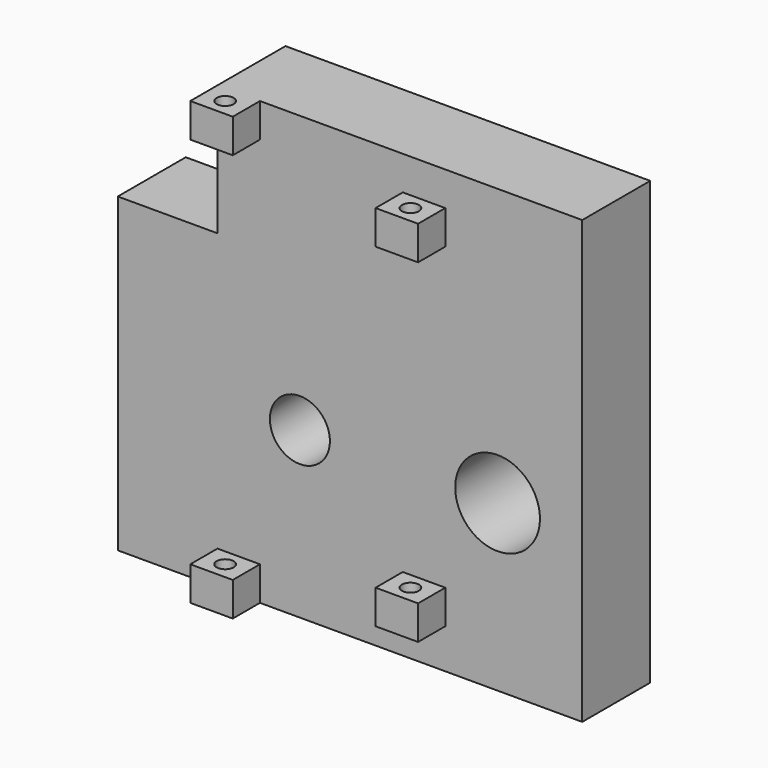
from build123d import *

# Parameters (mm, degrees)
SKETCH011_W     = 82
SKETCH011_H     = 78
SKETCH011_R     = 7.485
SKETCH011_R_2   = 5.3
PAD011_DEPTH    = 15
SKETCH012_W     = 7.5
SKETCH012_H     = 6
PAD012_DEPTH    = 6
SKETCH013_R     = 1.5
POCKET003_DEPTH = 3
SKETCH014_R     = 1.5
POCKET004_DEPTH = 3
SKETCH015_R     = 1.5
POCKET005_DEPTH = 6
SKETCH016_R     = 1.5
POCKET006_DEPTH = 6
SKETCH023_W     = 17.6
SKETCH023_H     = 23
POCKET012_DEPTH = 15.001


with BuildPart() as part:
    # Sketch011 → Pad011 (new body)
    with BuildSketch(Plane.XZ):
        with Locations((0, 39)):
            Rectangle(SKETCH011_W, SKETCH011_H)
        with Locations((26.05, 29.15)):
            Circle(SKETCH011_R, mode=Mode.SUBTRACT)
        with Locations((-8.85, 29.15)):
            Circle(SKETCH011_R_2, mode=Mode.SUBTRACT)
    extrude(amount=PAD011_DEPTH)

    # Sketch012 (on Face8 of Pad011) → Pad012 (join)
    with BuildSketch(Plane.XZ.offset(15)):
        with Locations((-19.65, 3)):
            Rectangle(SKETCH012_W, SKETCH012_H)
        with Locations((-19.65, 75)):
            Rectangle(SKETCH012_W, SKETCH012_H)
        with Locations((13.065, 10)):
            Rectangle(SKETCH012_W, SKETCH012_H)
        with Locations((13.065, 69)):
            Rectangle(SKETCH012_W, SKETCH012_H)
    extrude(amount=PAD012_DEPTH)

    # Sketch013 (on Face11 of Pad012) → Pocket003 (cut)
    with BuildSketch(Plane(origin=(0, 0, 6), x_dir=(-1, 0, 0), z_dir=(0, 0, 1))):
        with Locations((19.65, 18)):
            Circle(SKETCH013_R)
    extrude(amount=-POCKET003_DEPTH, mode=Mode.SUBTRACT)

    # Sketch014 (on Face16 of Pocket003) → Pocket004 (cut)
    with BuildSketch(Plane(origin=(0, 0, 13), x_dir=(-1, 0, 0), z_dir=(0, 0, 1))):
        with Locations((-13.065, 18)):
            Circle(SKETCH014_R)
    extrude(amount=-POCKET004_DEPTH, mode=Mode.SUBTRACT)

    # Sketch015 (on Face6 of Pocket004) → Pocket005 (cut)
    with BuildSketch(Plane(origin=(0, 0, 78), x_dir=(-1, 0, 0), z_dir=(0, 0, 1))):
        with Locations((19.65, 18)):
            Circle(SKETCH015_R)
    extrude(amount=-POCKET005_DEPTH, mode=Mode.SUBTRACT)

    # Sketch016 (on Face20 of Pocket005) → Pocket006 (cut)
    with BuildSketch(Plane(origin=(0, 0, 72), x_dir=(-1, 0, 0), z_dir=(0, 0, 1))):
        with Locations((-13.065, 18)):
            Circle(SKETCH016_R)
    extrude(amount=-POCKET006_DEPTH, mode=Mode.SUBTRACT)

    # Sketch023 (on Face5 of Pocket006) → Pocket012 (cut, through all)
    with BuildSketch(Plane.XZ.offset(15)):
        with Locations((-32.2, 66.5)):
            Rectangle(SKETCH023_W, SKETCH023_H)
    extrude(amount=-POCKET012_DEPTH, mode=Mode.SUBTRACT)


with BuildPart() as part_1:
    # Body002 placement: moved
    add(part.part.moved(Location((0, -39, 0))))


solid = part_1.part
